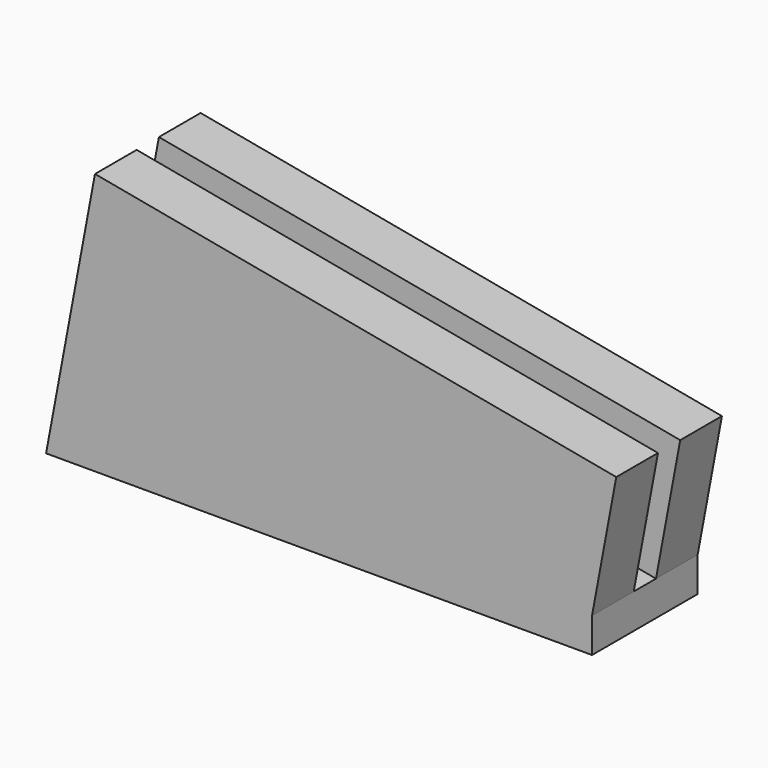
from build123d import *

# Parameters (mm, degrees)
F1_DEPTH = 9.652
F2_W     = 38.7581029464
F2_H     = 3.81
F3_DEPTH = 9.652
F5_DEPTH = 9.652


with BuildPart() as f1:
    # F0 (on Front) → F1 (new body)
    with BuildSketch(Plane.XZ):
        Polygon((0, 9.652), (0, 0), (38.1, 0), (38.1, 2.54), align=None)
    extrude(amount=F1_DEPTH)

    # F2 (on face) → F3 (join)
    with BuildSketch(Plane(origin=(1.7410410582, 0, 9.3270056691), x_dir=(0.9830202488, 0, -0.1834971131), z_dir=(0.1834971131, 0, 0.9830202488))):
        with Locations((17.6079373375, -7.747)):
            Rectangle(F2_W, F2_H)
        with Locations((17.6079373375, -1.905)):
            Rectangle(F2_W, F2_H)
    extrude(amount=F3_DEPTH)

    # F4 (on face) → F5 (join)
    with BuildSketch(Plane.XZ.offset(9.652)):
        Polygon((0, 0), (0, 9.652), (-1.8017066667, 0), align=None)
    extrude(amount=-F5_DEPTH)


solid = f1.part
